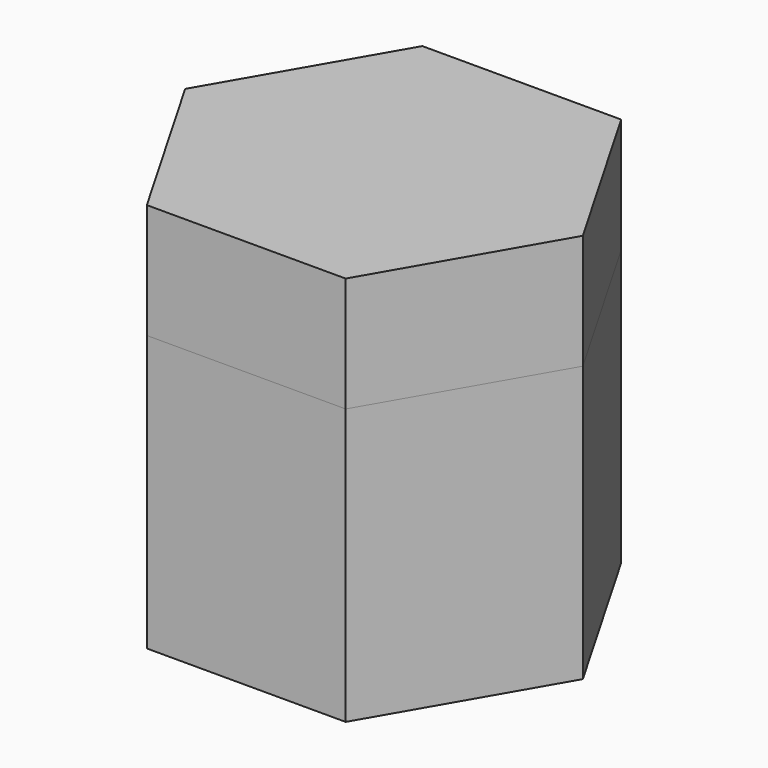
from build123d import *

# Parameters (mm, degrees)
F1_DEPTH = 60.96
F2_DEPTH = 25.4


with BuildPart() as f1:
    # F0 (on Top) → F1 (new body)
    with BuildSketch(Plane.XY):
        Polygon((21.997045, 38.1), (-21.997045, 38.1), (-43.994091, 0), (-21.997045, -38.1), (21.997045, -38.1), (43.994091, 0), align=None)
    extrude(amount=F1_DEPTH)


with BuildPart() as f2:
    # F1_face (on face) → F2 (new body)
    with BuildSketch(Plane.XY.offset(60.96)):
        Polygon((21.997045, 38.1), (-21.997045, 38.1), (-43.994091, 0), (-21.997045, -38.1), (21.997045, -38.1), (43.994091, 0), align=None)
    extrude(amount=F2_DEPTH)


solid = Compound([f1.part, f2.part])
